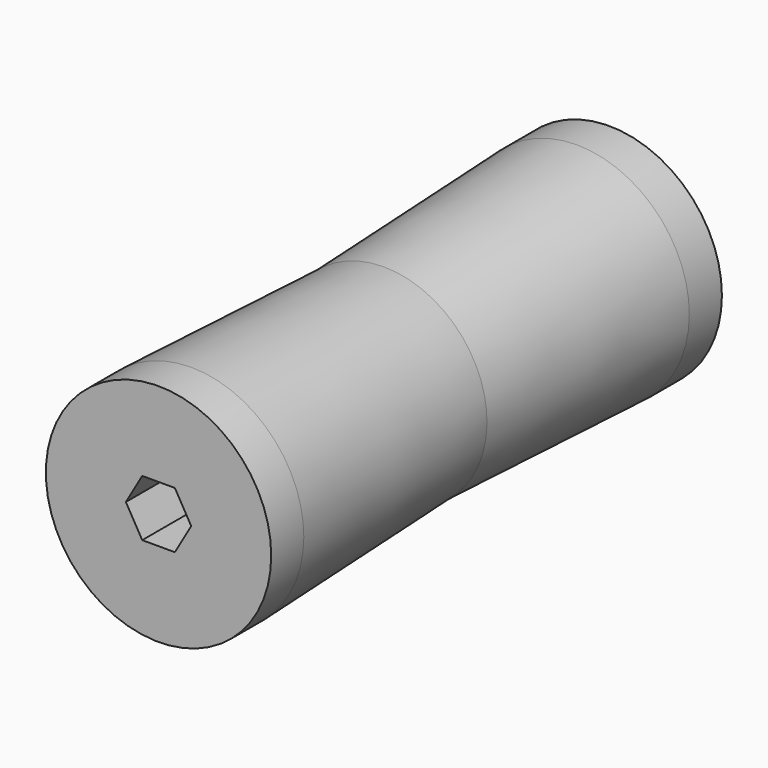
from build123d import *

# Parameters (mm, degrees)
F0_R     = 25.4
F1_DEPTH = 63.5


with BuildPart() as f1:
    # F0 (on Front) → F1 (new body)
    with BuildSketch(Plane.XZ):
        Circle(F0_R)
        Polygon((7.361678, 0), (3.680839, -6.3754), (-3.680839, -6.3754), (-7.361678, 0), (-3.680839, 6.3754), (3.680839, 6.3754), align=None, mode=Mode.SUBTRACT)
    extrude(amount=F1_DEPTH)

    # F2 (on Right) → F3 (revolve, cut)
    with BuildSketch(Plane.YZ):
        Polygon((-63.5, 25.606239), (-63.5, 23.248794), (-3.98305, 25.606239), align=None)
    revolve(axis=Axis((0, -31.75, 0), (0, -1, 0)), mode=Mode.SUBTRACT)

    # F5: F1 across plane


with BuildPart() as f1_1:
    add(f1.part)
    add(f1.part.mirror(Plane.XZ.offset(63.5)))


solid = f1_1.part
